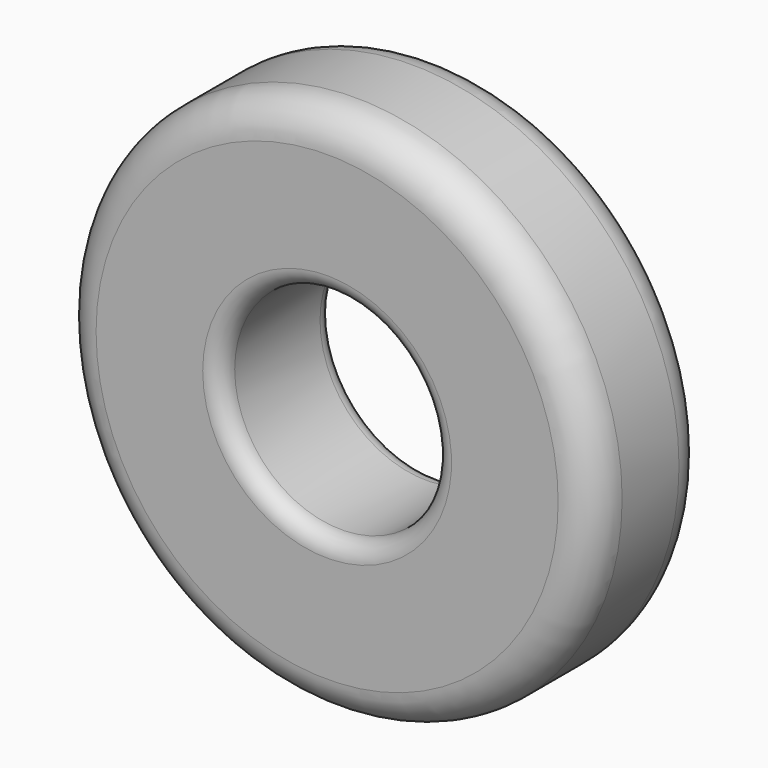
from build123d import *

# Parameters (mm, degrees)
F0_R     = 75
F1_DEPTH = 40
F2_R     = 10
F3_R     = 10
F4_R     = 30
F5_DEPTH = 45
F6_R     = 5


with BuildPart() as f1:
    # F0 (on Front) → F1 (new body)
    with BuildSketch(Plane.XZ):
        Circle(F0_R)
    extrude(amount=F1_DEPTH)

    # F2
    f2_edges = [f1.edges().sort_by_distance(p)[0] for p in [
        (-75, -40, 0),
    ]]
    fillet(f2_edges, radius=F2_R)

    # F3
    f3_edges = [f1.edges().sort_by_distance(p)[0] for p in [
        (-75, 0, 0),
    ]]
    fillet(f3_edges, radius=F3_R)

    # F4 (on face) → F5 (cut)
    with BuildSketch(Plane(origin=(0, 0, 0), x_dir=(-1, 0, 0), z_dir=(0, 1, 0))):
        Circle(F4_R)
    extrude(amount=-F5_DEPTH, mode=Mode.SUBTRACT)

    # F6
    f6_edges = [f1.edges().sort_by_distance(p)[0] for p in [
        (30, -40, 0),
        (30, 0, 0),
    ]]
    fillet(f6_edges, radius=F6_R)


solid = f1.part
